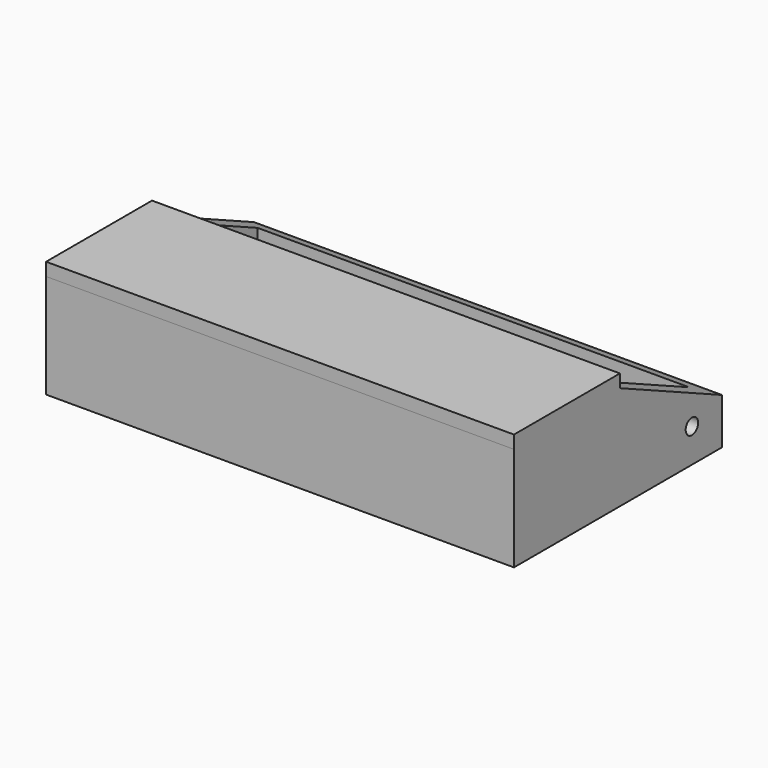
from build123d import *

# Parameters (mm, degrees)
F0_W          = 22.86
F0_H          = 12.7
F1_DEPTH      = 5.08
F2_T          = -0.889
F4_DEPTH      = 11.431
F4_DEPTH_BACK = 25.4
F5_W          = 22.86
F5_H          = 6.469409
F6_DEPTH      = 0.635
F6_DEPTH_BACK = 0.635
F7_R          = 0.381
F8_DEPTH      = 22.861


with BuildPart() as f1:
    # F0 (on Top) → F1 (new body)
    with BuildSketch(Plane.XY):
        Rectangle(F0_W, F0_H)
    extrude(amount=F1_DEPTH)

    # F2
    f2_openings = [f1.faces().sort_by_distance(p)[0] for p in [
        (0, 0, 5.08),
    ]]
    offset(amount=F2_T, openings=f2_openings)

    # F3 (on Right) → F4 (cut, two sides)
    with BuildSketch(Plane.YZ) as f4_sk:
        Polygon((0, 5.134136), (6.352156, 2.25425), (7.287184, 2.142046), (6.913173, 6.368374), align=None)
    extrude(amount=F4_DEPTH, mode=Mode.SUBTRACT)
    extrude(f4_sk.sketch, amount=-F4_DEPTH_BACK, mode=Mode.SUBTRACT)

    # F5 (on face) → F6 (join, two sides)
    with BuildSketch(Plane.XY.offset(5.08)) as f6_sk:
        with Locations((0, -3.115295)):
            Rectangle(F5_W, F5_H)
    extrude(amount=F6_DEPTH)
    extrude(f6_sk.sketch, amount=-F6_DEPTH_BACK)

    # F7 (on face) → F8 (cut, through all)
    with BuildSketch(Plane(origin=(-11.43, 0, 0), x_dir=(0, -1, 0), z_dir=(-1, 0, 0))):
        with Locations((-4.518309, 1.651)):
            Circle(F7_R)
    extrude(amount=-F8_DEPTH, mode=Mode.SUBTRACT)


solid = f1.part
